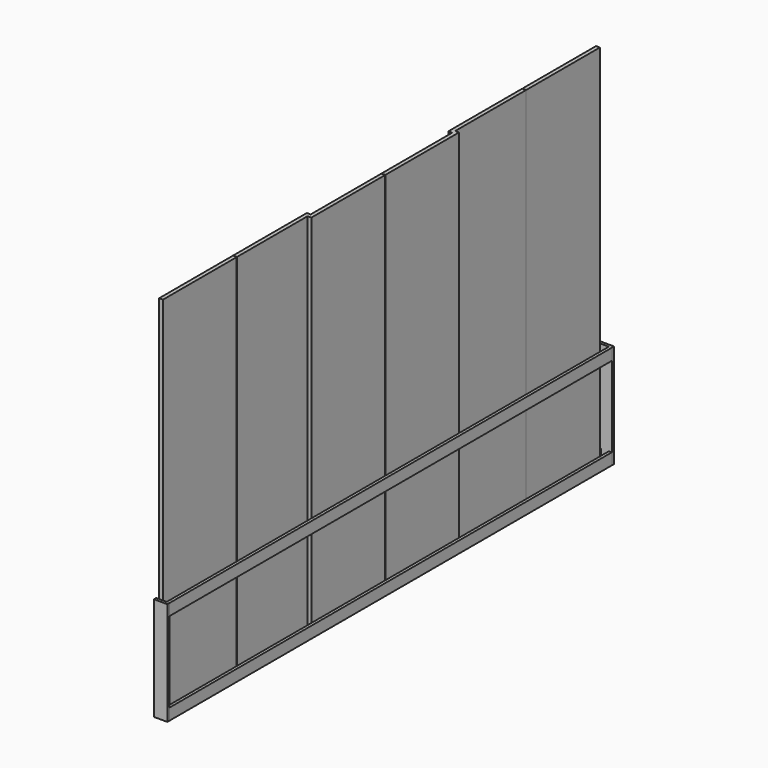
from build123d import *

# Parameters (mm, degrees)
F0_W     = 19.05
F0_H     = 76.2
F1_DEPTH = 1828.8
F2_W     = 25.4
F2_H     = 609.6
F3_DEPTH = 2438.4
F5_DEPTH = 685.8


with BuildPart() as f1:
    # F0 (on Front) → F1 (new body, symmetric)
    with BuildSketch(Plane.XZ):
        with Locations((9.525, 38.1)):
            Rectangle(F0_W, F0_H)
        with Locations((79.375, 38.1)):
            Rectangle(F0_W, F0_H)
        with Locations((79.375, 647.7)):
            Rectangle(F0_W, F0_H)
    extrude(amount=F1_DEPTH, both=True)


with BuildPart() as f3:
    # F2 (on face) → F3 (new body)
    with BuildSketch(Plane(origin=(0, 0, 0), x_dir=(1, 0, 0), z_dir=(0, 0, -1))):
        with Locations((31.75, 1524)):
            Rectangle(F2_W, F2_H)
        Polygon((44.45, 1216.66), (19.05, 1216.66), (19.05, 607.06), (44.45, 607.06), (44.45, 632.46), align=None)
        Polygon((44.45, 20.32), (44.45, -563.88), (44.45, -589.28), (69.85, -589.28), (69.85, 20.32), align=None)
        Polygon((69.85, 632.46), (44.45, 632.46), (44.45, 607.06), (44.45, 22.86), (69.85, 22.86), align=None)
        Polygon((44.45, -563.88), (19.05, -563.88), (19.05, -1173.48), (44.45, -1173.48), (44.45, -589.28), align=None)
        with Locations((31.75, -1480.82)):
            Rectangle(F2_W, F2_H)
    extrude(amount=-F3_DEPTH)


with BuildPart() as f5:
    # F4 (on face) → F5 (new body, through all)
    with BuildSketch(Plane(origin=(0, 0, 0), x_dir=(1, 0, 0), z_dir=(0, 0, -1))):
        Polygon((19.05, -1828.8), (0, -1828.8), (0, -1847.85), (88.9, -1847.85), (88.9, -1828.8), align=None)
        Polygon((0, 1847.85), (0, 1828.8), (19.05, 1828.8), (88.9, 1828.8), (88.9, 1847.85), align=None)
    extrude(amount=-F5_DEPTH)


solid = Compound([f1.part, f3.part, f5.part])
